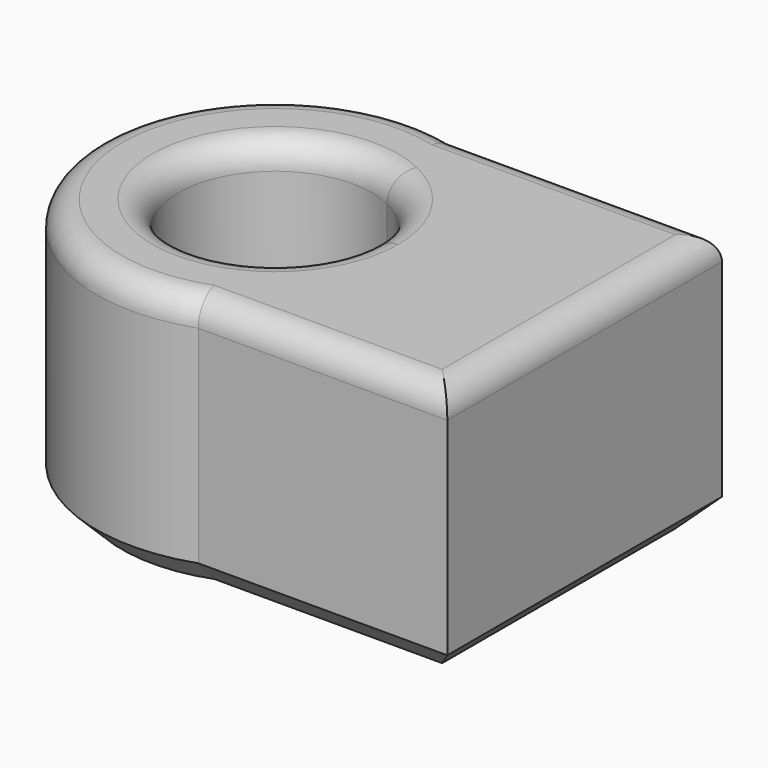
from build123d import *

# Parameters (mm, degrees)
F1_DEPTH = 50.8
F2_SIZE  = 5.08
F4_DEPTH = 12.7
F5_R     = 5.08
F6_R     = 5.08


with BuildPart() as f1:
    # F0 (on Top) → F1 (new body)
    with BuildSketch(Plane.XY):
        with BuildLine():
            ThreePointArc((11.4679807678, -33.227154294), (28.6239736934, -20.4016297233), (35.1505101722, 0))
            ThreePointArc((35.1505101722, 0), (27.5943099323, 21.7741228234), (8.1743768298, 34.186809281))
            Line((8.1743768298, 34.186809281), (8.1743768298, 17.2070352892))
            ThreePointArc((8.1743768298, 17.2070352892), (16.1031732681, 10.1779325354), (19.05, 0))
            ThreePointArc((19.05, 0), (16.1031732681, -10.1779325354), (8.1743768298, -17.2070352892))
            Line((8.1743768298, -17.2070352892), (8.1743768298, -33.227154294))
            Line((8.1743768298, -33.227154294), (11.4679807678, -33.227154294))
        make_face()
        with BuildLine():
            ThreePointArc((8.1743768298, 34.186809281), (27.5943099323, 21.7741228234), (35.1505101722, 0))
            ThreePointArc((35.1505101722, 0), (28.6239736934, -20.4016297233), (11.4679807678, -33.227154294))
            Line((11.4679807678, -33.227154294), (60.3725549432, -33.227154294))
            Line((60.3725549432, -33.227154294), (60.3725549432, 34.186809281))
            Line((60.3725549432, 34.186809281), (8.1743768298, 34.186809281))
        make_face()
        with BuildLine():
            Line((8.1743768298, 17.2070352892), (8.1743768298, 34.186809281))
            ThreePointArc((8.1743768298, 34.186809281), (-35.1086338985, -1.7152816528), (11.4679807678, -33.227154294))
            Line((11.4679807678, -33.227154294), (8.1743768298, -33.227154294))
            Line((8.1743768298, -33.227154294), (8.1743768298, -17.2070352892))
            ThreePointArc((8.1743768298, -17.2070352892), (-19.05, 0), (8.1743768298, 17.2070352892))
        make_face()
    extrude(amount=F1_DEPTH)

    # F2
    f2_edges = [f1.edges().sort_by_distance(p)[0] for p in [
        (-35.108634, -1.715282, 0),
        (34.273466, 34.186809, 0),
        (60.372555, 0.479827, 0),
        (35.920268, -33.227154, 0),
    ]]
    chamfer(f2_edges, length=F2_SIZE)

    # F3 (on Top) → F4 (join)
    with BuildSketch(Plane.XY):
        with BuildLine():
            Line((9.958841659, 26.0848395173), (9.958841659, -26.0848395173))
            ThreePointArc((9.958841659, -26.0848395173), (22.9963138093, -15.8356222175), (27.9212710998, 0))
            ThreePointArc((27.9212710998, 0), (22.9963138093, 15.8356222175), (9.958841659, 26.0848395173))
        make_face()
        with BuildLine():
            ThreePointArc((27.9212710998, 0), (22.9963138093, -15.8356222175), (9.958841659, -26.0848395173))
            Line((9.958841659, -26.0848395173), (51.6148433089, -26.0848395173))
            Line((51.6148433089, -26.0848395173), (51.6148433089, 26.8565043807))
            Line((51.6148433089, 26.8565043807), (9.958841659, 26.8565043807))
            Line((9.958841659, 26.8565043807), (9.958841659, 26.0848395173))
            ThreePointArc((9.958841659, 26.0848395173), (22.9963138093, 15.8356222175), (27.9212710998, 0))
        make_face()
        with BuildLine():
            ThreePointArc((9.958841659, 26.0848395173), (-27.9212710998, 0), (9.958841659, -26.0848395173))
            Line((9.958841659, -26.0848395173), (9.958841659, 26.0848395173))
        make_face()
    extrude(amount=F4_DEPTH)

    # F5
    f5_edges = [f1.edges().sort_by_distance(p)[0] for p in [
        (-35.108634, -1.715282, 50.8),
        (35.920268, -33.227154, 50.8),
        (60.372555, 0.479827, 50.8),
        (34.273466, 34.186809, 50.8),
    ]]
    fillet(f5_edges, radius=F5_R)

    # F6
    f6_edges = [f1.edges().sort_by_distance(p)[0] for p in [
        (-8.174377, 17.207035, 50.8),
    ]]
    fillet(f6_edges, radius=F6_R)


solid = f1.part
